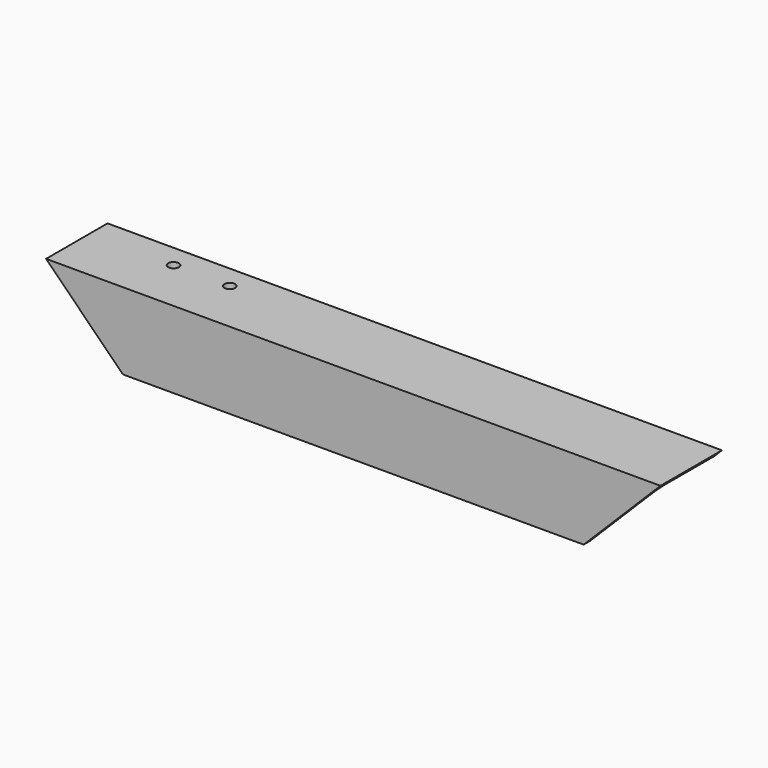
from build123d import *

# Parameters (mm, degrees)
F1_DEPTH      = 120
F1_DEPTH_BACK = 120
F2_R          = 3
F4_DEPTH      = 30.001
F6_D          = 4.2


with BuildPart() as f1:
    # F0 (on Right) → F1 (new body, two sides)
    with BuildSketch(Plane.YZ) as f1_sk:
        Polygon((0, 0), (0, -30), (3, -30), (3, -3), (30, -3), (30, 0), align=None)
    extrude(amount=F1_DEPTH)
    extrude(f1_sk.sketch, amount=-F1_DEPTH_BACK)

    # F2
    f2_edges = [f1.edges().sort_by_distance(p)[0] for p in [
        (0, 3, -3),
    ]]
    fillet(f2_edges, radius=F2_R)

    # F3 (on face) → F4 (cut, through all)
    with BuildSketch(Plane.XZ):
        Polygon((-80, -40), (-130, 10), (-130, -40), align=None)
        Polygon((130, -40), (130, 10), (80, -40), align=None)
    extrude(amount=-F4_DEPTH, mode=Mode.SUBTRACT)

    # F6 (through all)
    with Locations(Plane.XY):
        with Locations((-87, 21), (-65, 21)):
            Hole(F6_D / 2)


solid = f1.part
